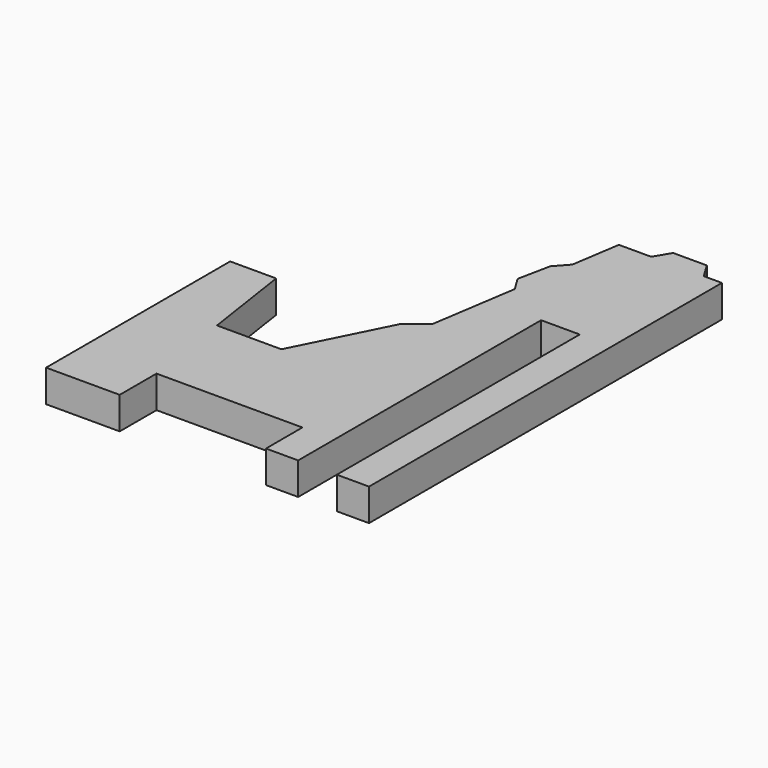
from build123d import *

# Parameters (mm, degrees)
F1_DEPTH = 3.5


with BuildPart() as f1:
    # F0 (on Top) → F1 (new body)
    with BuildSketch(Plane.XY):
        Polygon((-12.354544, 8.491304), (-12.354544, -16.508696), (-4.354544, -16.508696), (-4.354544, -11.508696), (11.501206, -11.508696), (11.501206, -16.460985), (15.001206, -16.460985), (15.001206, 16.539015), (19.201206, 16.539015), (19.201206, -16.460985), (22.701206, -16.460985), (22.701206, 31.478356), (20.728096, 31.478356), (19.689906, 33.187406), (16.040026, 33.187406), (15.001206, 31.478356), (11.501206, 31.478356), (10.688619, 26.177783), (9.417876, 24.762149), (8.694021, 21.221565), (9.683047, 19.618348), (8.239563, 10.202372), (6.093366, 8.491304), (1.128861, -1.39806), (-5.871139, -1.39806), (-7.354544, 8.491304), align=None)
    extrude(amount=F1_DEPTH)


solid = f1.part
